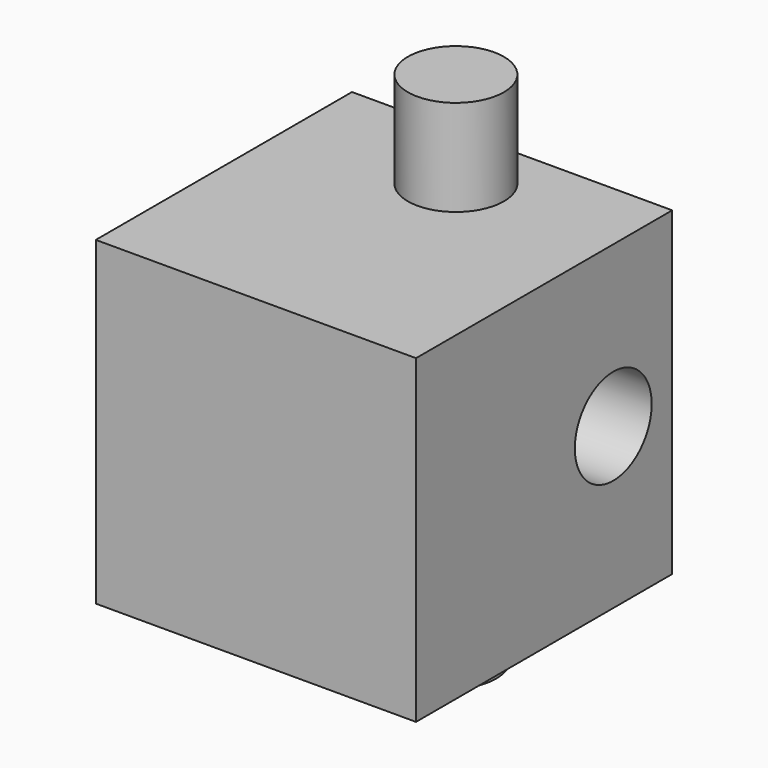
from build123d import *

# Parameters (mm, degrees)
F0_W     = 100
F0_H     = 100
F1_DEPTH = 100
F2_R     = 15
F3_DEPTH = 30
F4_R     = 15
F5_DEPTH = 30
F7_D     = 30


with BuildPart() as f1:
    # F0 (on Front) → F1 (new body)
    with BuildSketch(Plane.XZ):
        Rectangle(F0_W, F0_H)
    extrude(amount=F1_DEPTH)

    # F2 (on face) → F3 (join)
    with BuildSketch(Plane.XY.offset(50)):
        with Locations((0, -21.943816)):
            Circle(F2_R)
    extrude(amount=F3_DEPTH)

    # F4 (on face) → F5 (join)
    with BuildSketch(Plane(origin=(0, 0, -50), x_dir=(1, 0, 0), z_dir=(0, 0, -1))):
        with Locations((0, 24.92946)):
            Circle(F4_R)
    extrude(amount=F5_DEPTH)

    # F7 (through all)
    with Locations(Plane.YZ.offset(50)):
        with Locations((-23.007467, 0)):
            Hole(F7_D / 2)


solid = f1.part
